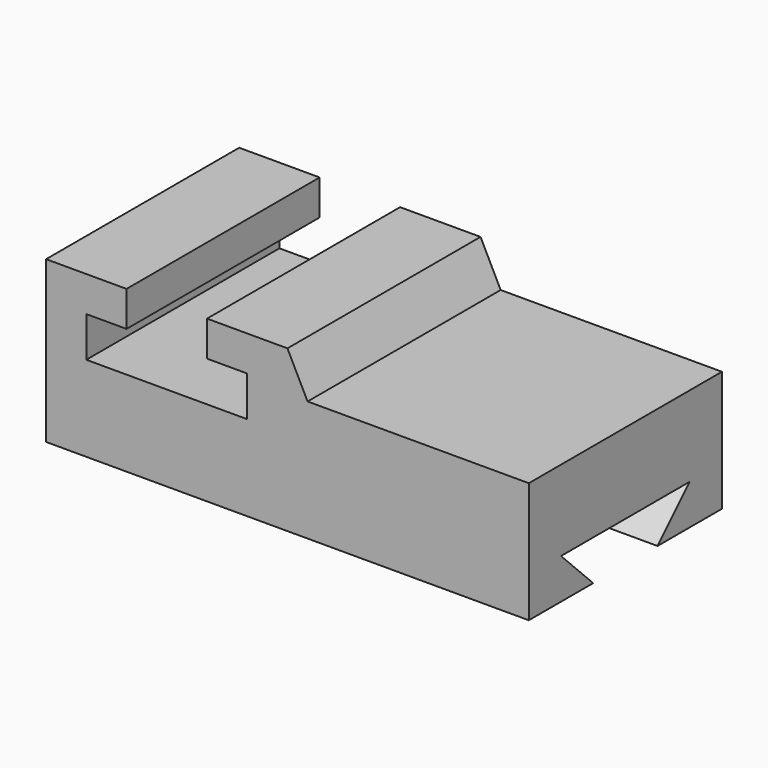
from build123d import *

# Parameters (mm, degrees)
F1_DEPTH = 76.2
F3_DEPTH = 152.4


with BuildPart() as f1:
    # F0 (on Front) → F1 (new body)
    with BuildSketch(Plane.XZ):
        Polygon((0, 50.8), (0, 0), (152.4, 0), (152.4, 38.1), (82.55, 38.1), (76.2, 50.8), (50.8, 50.8), (50.8, 39.675667), (63.5, 39.675667), (63.5, 26.975667), (12.7, 26.975667), (12.7, 39.675667), (25.4, 39.675667), (25.4, 50.8), align=None)
    extrude(amount=F1_DEPTH)

    # F2 (on face) → F3 (cut, through all)
    with BuildSketch(Plane.YZ.offset(152.4)):
        Polygon((-12.7, 12.7), (-38.1, 12.7), (-63.5, 12.7), (-50.8, 0), (-25.4, 0), align=None)
    extrude(amount=-F3_DEPTH, mode=Mode.SUBTRACT)


solid = f1.part
